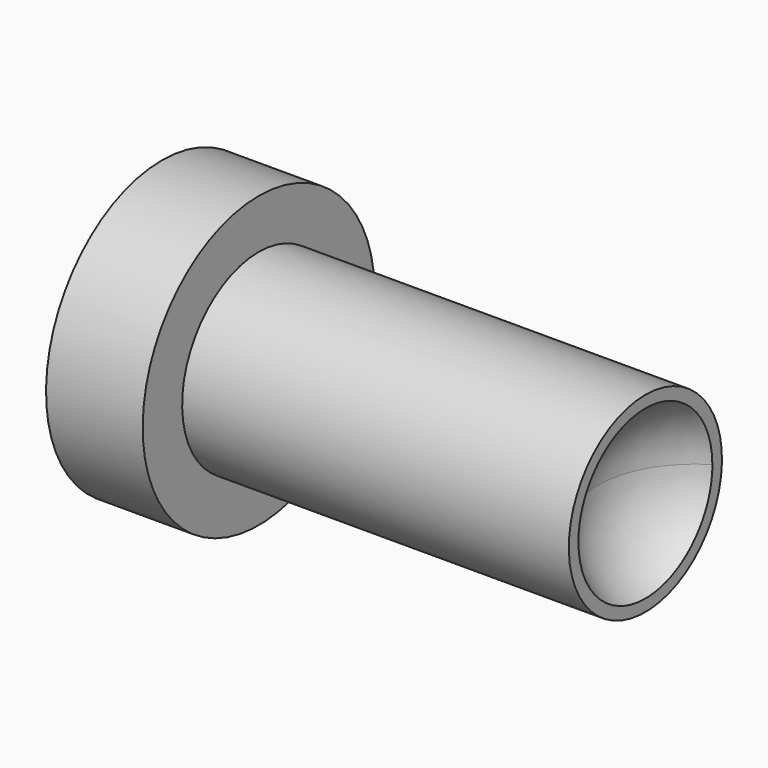
from build123d import *

# Parameters (mm, degrees)
F0_W = 50.8
F0_H = 12.573


with BuildPart() as f1:
    # F0 (on Front) → F1 (revolve)
    with BuildSketch(Plane.XZ):
        with Locations((11.307323, 6.2865)):
            Rectangle(F0_W, F0_H)
        Polygon((-26.792677, 0), (-14.092677, 0), (-14.092677, 12.573), (-14.092677, 19.05), (-26.792677, 19.05), align=None)
    revolve(axis=Axis((11.307323, 0, 0), (1, 0, 0)))

    # F2 (on Front) → F3 (revolve, cut)
    with BuildSketch(Plane.XZ):
        with BuildLine():
            ThreePointArc((43.057323, -12.7), (52.037579, -8.980256), (55.757323, 0))
            ThreePointArc((55.757323, 0), (52.037579, 8.980256), (43.057323, 12.7))
            Line((43.057323, 12.7), (43.057323, 0))
            Line((43.057323, 0), (43.057323, -12.7))
        make_face()
    revolve(axis=Axis((43.057323, 0, 6.35), (0, 0, 1)), mode=Mode.SUBTRACT)


solid = f1.part
